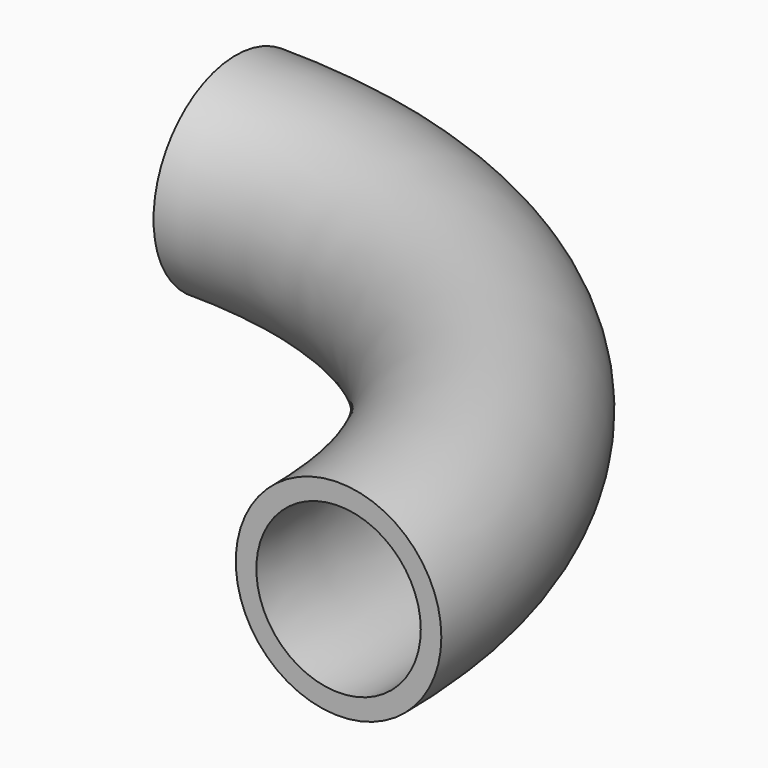
from build123d import *

# Parameters (mm, degrees)
F1_R   = 10
F1_R_2 = 8


with BuildPart() as f2:
    # F2: sweep along a path in F0
    with BuildLine(Plane.XY) as f2_path:
        ThreePointArc((50, 0), (35.3553390593, 35.3553390593), (0, 50))
    # F1 (on Right) → F2 (sweep)
    with BuildSketch(Plane.YZ):
        with Locations((50, 0)):
            Circle(F1_R)
        with Locations((50, 0)):
            Circle(F1_R_2, mode=Mode.SUBTRACT)
    sweep(path=f2_path.line)


solid = f2.part
